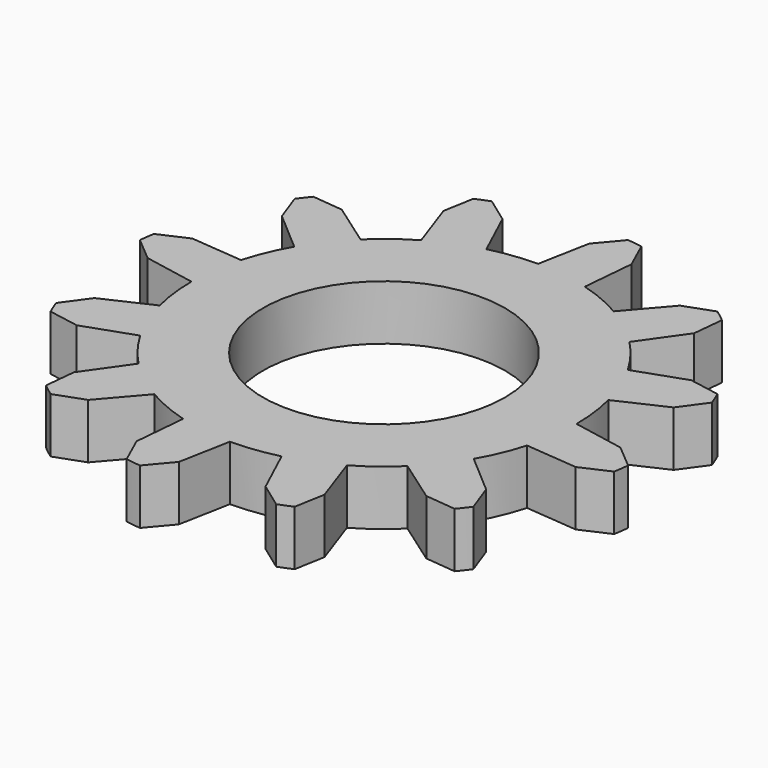
from build123d import *

# Parameters (mm, degrees)
F0_R     = 11
F1_DEPTH = 5


with BuildPart() as f1:
    # F0 (on Top) → F1 (new body)
    with BuildSketch(Plane.XY):
        with BuildLine():
            ThreePointArc((16.8326, -4.786812), (17.332347, -2.416557), (17.5, 0))
            ThreePointArc((17.5, 0), (17.367213, 2.151727), (16.970865, 4.2708))
            ThreePointArc((16.970865, 4.2708), (16.218531, 6.573374), (15.155445, 8.75))
            ThreePointArc((15.155445, 8.75), (13.964584, 10.547056), (12.561801, 12.184054))
            ThreePointArc((12.561801, 12.184054), (10.758973, 13.801974), (8.75, 15.155445))
            ThreePointArc((8.75, 15.155445), (6.820156, 16.116311), (4.786812, 16.8326))
            ThreePointArc((4.786812, 16.8326), (2.416557, 17.332347), (0, 17.5))
            ThreePointArc((0, 17.5), (-2.151727, 17.367213), (-4.2708, 16.970865))
            ThreePointArc((-4.2708, 16.970865), (-6.573374, 16.218531), (-8.75, 15.155445))
            ThreePointArc((-8.75, 15.155445), (-10.547056, 13.964584), (-12.184054, 12.561801))
            ThreePointArc((-12.184054, 12.561801), (-13.801974, 10.758973), (-15.155445, 8.75))
            ThreePointArc((-15.155445, 8.75), (-16.116311, 6.820156), (-16.8326, 4.786812))
            ThreePointArc((-16.8326, 4.786812), (-17.332347, 2.416557), (-17.5, 0))
            ThreePointArc((-17.5, 0), (-17.367213, -2.151727), (-16.970865, -4.2708))
            ThreePointArc((-16.970865, -4.2708), (-16.218531, -6.573374), (-15.155445, -8.75))
            ThreePointArc((-15.155445, -8.75), (-13.964584, -10.547056), (-12.561801, -12.184054))
            ThreePointArc((-12.561801, -12.184054), (-10.758973, -13.801974), (-8.75, -15.155445))
            ThreePointArc((-8.75, -15.155445), (-6.820156, -16.116311), (-4.786812, -16.8326))
            ThreePointArc((-4.786812, -16.8326), (-2.416557, -17.332347), (0, -17.5))
            ThreePointArc((0, -17.5), (2.151727, -17.367213), (4.2708, -16.970865))
            ThreePointArc((4.2708, -16.970865), (6.573374, -16.218531), (8.75, -15.155445))
            ThreePointArc((8.75, -15.155445), (10.547056, -13.964584), (12.184054, -12.561801))
            ThreePointArc((12.184054, -12.561801), (13.801974, -10.758973), (15.155445, -8.75))
            ThreePointArc((15.155445, -8.75), (16.116311, -6.820156), (16.8326, -4.786812))
        make_face()
        Circle(F0_R, mode=Mode.SUBTRACT)
        with BuildLine():
            Line((22.193341, -0.890096), (17.5, 0))
            ThreePointArc((17.5, 0), (17.332347, -2.416557), (16.8326, -4.786812))
            Line((16.8326, -4.786812), (21.59042, -5.214441))
            Line((21.59042, -5.214441), (24.161443, -4.058901))
            ThreePointArc((24.161443, -4.058901), (24.265286, -3.38318), (24.350235, -2.704824))
            Line((24.350235, -2.704824), (22.193341, -0.890096))
        make_face()
        with BuildLine():
            ThreePointArc((15.155445, 8.75), (16.218531, 6.573374), (16.970865, 4.2708))
            Line((16.970865, 4.2708), (21.305073, 6.279372))
            Line((21.305073, 6.279372), (22.953874, 8.56561))
            ThreePointArc((22.953874, 8.56561), (22.705944, 9.202724), (22.440334, 9.832671))
            Line((22.440334, 9.832671), (19.665045, 10.325825))
            Line((19.665045, 10.325825), (15.155445, 8.75))
        make_face()
        with BuildLine():
            Line((18.774949, -11.867516), (15.155445, -8.75))
            ThreePointArc((15.155445, -8.75), (13.801974, -10.758973), (12.184054, -12.561801))
            Line((12.184054, -12.561801), (16.090632, -15.311048))
            Line((16.090632, -15.311048), (18.894973, -15.595833))
            ThreePointArc((18.894973, -15.595833), (19.322764, -15.062562), (19.73551, -14.517564))
            Line((19.73551, -14.517564), (18.774949, -11.867516))
        make_face()
        with BuildLine():
            ThreePointArc((8.75, 15.155445), (10.758973, 13.801974), (12.561801, 12.184054))
            Line((12.561801, 12.184054), (15.311048, 16.090632))
            Line((15.311048, 16.090632), (15.595833, 18.894973))
            ThreePointArc((15.595833, 18.894973), (15.062562, 19.322764), (14.517564, 19.73551))
            Line((14.517564, 19.73551), (11.867516, 18.774949))
            Line((11.867516, 18.774949), (8.75, 15.155445))
        make_face()
        with BuildLine():
            Line((10.325825, -19.665045), (8.75, -15.155445))
            ThreePointArc((8.75, -15.155445), (6.573374, -16.218531), (4.2708, -16.970865))
            Line((4.2708, -16.970865), (6.279372, -21.305073))
            Line((6.279372, -21.305073), (8.56561, -22.953874))
            ThreePointArc((8.56561, -22.953874), (9.202724, -22.705944), (9.832671, -22.440334))
            Line((9.832671, -22.440334), (10.325825, -19.665045))
        make_face()
        with BuildLine():
            ThreePointArc((0, 17.5), (2.416557, 17.332347), (4.786812, 16.8326))
            Line((4.786812, 16.8326), (5.214441, 21.59042))
            Line((5.214441, 21.59042), (4.058901, 24.161443))
            ThreePointArc((4.058901, 24.161443), (3.38318, 24.265286), (2.704824, 24.350235))
            Line((2.704824, 24.350235), (0.890096, 22.193341))
            Line((0.890096, 22.193341), (0, 17.5))
        make_face()
        with BuildLine():
            Line((-0.890096, -22.193341), (0, -17.5))
            ThreePointArc((0, -17.5), (-2.416557, -17.332347), (-4.786812, -16.8326))
            Line((-4.786812, -16.8326), (-5.214441, -21.59042))
            Line((-5.214441, -21.59042), (-4.058901, -24.161443))
            ThreePointArc((-4.058901, -24.161443), (-3.38318, -24.265286), (-2.704824, -24.350235))
            Line((-2.704824, -24.350235), (-0.890096, -22.193341))
        make_face()
        with BuildLine():
            ThreePointArc((-8.75, 15.155445), (-6.573374, 16.218531), (-4.2708, 16.970865))
            Line((-4.2708, 16.970865), (-6.279372, 21.305073))
            Line((-6.279372, 21.305073), (-8.56561, 22.953874))
            ThreePointArc((-8.56561, 22.953874), (-9.202724, 22.705944), (-9.832671, 22.440334))
            Line((-9.832671, 22.440334), (-10.325825, 19.665045))
            Line((-10.325825, 19.665045), (-8.75, 15.155445))
        make_face()
        with BuildLine():
            Line((-11.867516, -18.774949), (-8.75, -15.155445))
            ThreePointArc((-8.75, -15.155445), (-10.758973, -13.801974), (-12.561801, -12.184054))
            Line((-12.561801, -12.184054), (-15.311048, -16.090632))
            Line((-15.311048, -16.090632), (-15.595833, -18.894973))
            ThreePointArc((-15.595833, -18.894973), (-15.062562, -19.322764), (-14.517564, -19.73551))
            Line((-14.517564, -19.73551), (-11.867516, -18.774949))
        make_face()
        with BuildLine():
            ThreePointArc((-15.155445, 8.75), (-13.801974, 10.758973), (-12.184054, 12.561801))
            Line((-12.184054, 12.561801), (-16.090632, 15.311048))
            Line((-16.090632, 15.311048), (-18.894973, 15.595833))
            ThreePointArc((-18.894973, 15.595833), (-19.322764, 15.062562), (-19.73551, 14.517564))
            Line((-19.73551, 14.517564), (-18.774949, 11.867516))
            Line((-18.774949, 11.867516), (-15.155445, 8.75))
        make_face()
        with BuildLine():
            Line((-19.665045, -10.325825), (-15.155445, -8.75))
            ThreePointArc((-15.155445, -8.75), (-16.218531, -6.573374), (-16.970865, -4.2708))
            Line((-16.970865, -4.2708), (-21.305073, -6.279372))
            Line((-21.305073, -6.279372), (-22.953874, -8.56561))
            ThreePointArc((-22.953874, -8.56561), (-22.705944, -9.202724), (-22.440334, -9.832671))
            Line((-22.440334, -9.832671), (-19.665045, -10.325825))
        make_face()
        with BuildLine():
            ThreePointArc((-17.5, 0), (-17.332347, 2.416557), (-16.8326, 4.786812))
            Line((-16.8326, 4.786812), (-21.59042, 5.214441))
            Line((-21.59042, 5.214441), (-24.161443, 4.058901))
            ThreePointArc((-24.161443, 4.058901), (-24.265286, 3.38318), (-24.350235, 2.704824))
            Line((-24.350235, 2.704824), (-22.193341, 0.890096))
            Line((-22.193341, 0.890096), (-17.5, 0))
        make_face()
    extrude(amount=F1_DEPTH)


solid = f1.part
